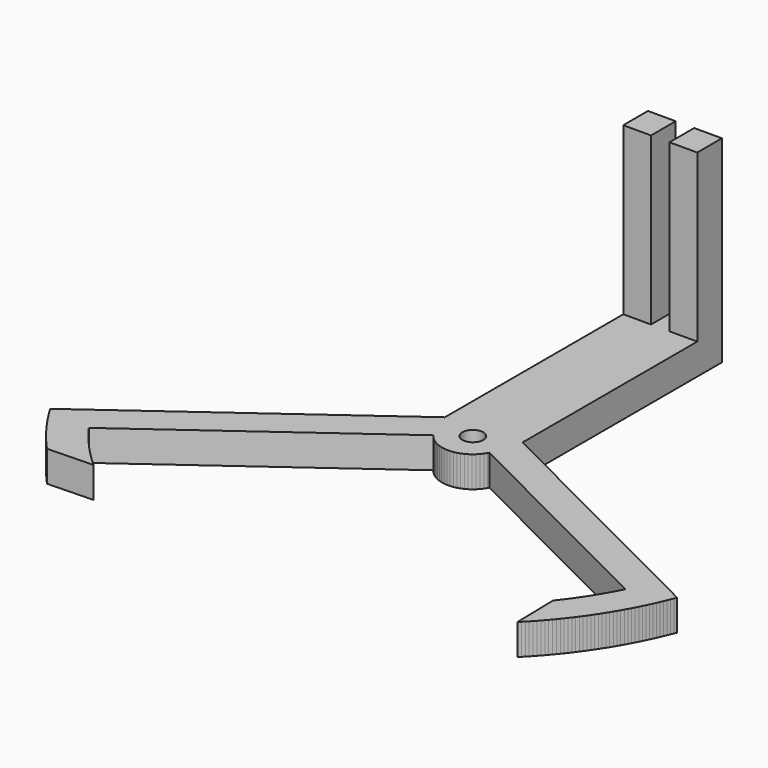
from build123d import *

# Parameters (mm, degrees)
F0_W     = 3
F0_H     = 5
F1_DEPTH = 5
F0_W_2   = 4.5
F2_DEPTH = 32


with BuildPart() as f1:
    # F0 (on Top) → F1 (new body)
    with BuildSketch(Plane.XY):
        with BuildLine():
            Line((47.181574, -2.732137), (5.298654, 18.285511))
            Line((5.298654, 18.285511), (5.298654, 14.702181))
            Line((5.298654, 14.702181), (0.673427, 14.702181))
            ThreePointArc((0.673427, 14.702181), (-0.701346, 14.002181), (-2.076119, 14.702181))
            Line((-2.076119, 14.702181), (-6.701346, 14.702181))
            Line((-6.701346, 14.702181), (-6.701346, 17.523266))
            Line((-6.701346, 17.523266), (-47.181575, -11.887342))
            Line((-47.181575, -11.887342), (-46.924376, -12.316116))
            Line((-46.924376, -12.316116), (-46.663222, -12.742492))
            Line((-46.663222, -12.742492), (-46.398134, -13.166434))
            Line((-46.398134, -13.166434), (-46.129137, -13.587906))
            Line((-46.129137, -13.587906), (-45.856253, -14.006872))
            Line((-45.856253, -14.006872), (-45.579504, -14.423295))
            Line((-45.579504, -14.423295), (-45.298916, -14.837141))
            Line((-45.298916, -14.837141), (-45.014511, -15.248374))
            Line((-45.014511, -15.248374), (-44.726314, -15.656958))
            Line((-44.726314, -15.656958), (-44.434351, -16.062858))
            Line((-44.434351, -16.062858), (-44.138645, -16.466041))
            Line((-44.138645, -16.466041), (-43.839222, -16.866471))
            Line((-43.839222, -16.866471), (-43.536108, -17.264114))
            Line((-43.536108, -17.264114), (-43.229328, -17.658936))
            Line((-43.229328, -17.658936), (-42.91891, -18.050904))
            Line((-42.91891, -18.050904), (-42.604879, -18.439983))
            Line((-42.604879, -18.439983), (-42.287262, -18.826141))
            Line((-42.287262, -18.826141), (-41.966087, -19.209344))
            Line((-41.966087, -19.209344), (-41.641381, -19.58956))
            Line((-41.641381, -19.58956), (-41.313171, -19.966756))
            Line((-41.313171, -19.966756), (-40.981487, -20.3409))
            Line((-40.981487, -20.3409), (-40.658041, -20.699137))
            Line((-40.658041, -20.699137), (-33.282088, -20.482399))
            Line((-33.282088, -20.482399), (-33.651937, -20.145932))
            Line((-33.651937, -20.145932), (-34.01831, -19.805685))
            Line((-34.01831, -19.805685), (-34.38117, -19.461693))
            Line((-34.38117, -19.461693), (-34.740479, -19.113994))
            Line((-34.740479, -19.113994), (-35.096199, -18.762623))
            Line((-35.096199, -18.762623), (-35.448292, -18.407618))
            Line((-35.448292, -18.407618), (-35.79672, -18.049016))
            Line((-35.79672, -18.049016), (-36.141448, -17.686856))
            Line((-36.141448, -17.686856), (-36.482439, -17.321174))
            Line((-36.482439, -17.321174), (-36.819657, -16.95201))
            Line((-36.819657, -16.95201), (-37.153067, -16.579403))
            Line((-37.153067, -16.579403), (-37.482632, -16.203392))
            Line((-37.482632, -16.203392), (-37.808319, -15.824017))
            Line((-37.808319, -15.824017), (-38.130094, -15.441317))
            Line((-38.130094, -15.441317), (-38.447921, -15.055333))
            Line((-38.447921, -15.055333), (-38.761768, -14.666106))
            Line((-38.761768, -14.666106), (-39.071602, -14.273677))
            Line((-39.071602, -14.273677), (-39.37739, -13.878087))
            Line((-39.37739, -13.878087), (-39.6791, -13.479377))
            Line((-39.6791, -13.479377), (-39.976699, -13.077591))
            Line((-39.976699, -13.077591), (-40.093318, -12.917762))
            Line((-40.093318, -12.917762), (-4.746431, 12.763255))
            Line((-4.746431, 12.763255), (-4.432819, 12.374102))
            Line((-4.432819, 12.374102), (-4.081924, 12.018203))
            Line((-4.081924, 12.018203), (-3.697251, 11.699113))
            Line((-3.697251, 11.699113), (-3.282644, 11.42002))
            Line((-3.282644, 11.42002), (-2.842246, 11.183714))
            Line((-2.842246, 11.183714), (-2.380456, 10.992554))
            Line((-2.380456, 10.992554), (-1.901889, 10.848451))
            Line((-1.901889, 10.848451), (-1.411327, 10.752845))
            Line((-1.411327, 10.752845), (-0.913671, 10.706691))
            Line((-0.913671, 10.706691), (-0.413894, 10.710451))
            Line((-0.413894, 10.710451), (0.083012, 10.764086))
            Line((0.083012, 10.764086), (0.57208, 10.867061))
            Line((0.57208, 10.867061), (1.048425, 11.018347))
            Line((1.048425, 11.018347), (1.507287, 11.216432))
            Line((1.507287, 11.216432), (1.94408, 11.459338))
            Line((1.94408, 11.459338), (2.354442, 11.744636))
            Line((2.354442, 11.744636), (2.734271, 12.069477))
            Line((2.734271, 12.069477), (3.079772, 12.430615))
            Line((3.079772, 12.430615), (3.387494, 12.824441))
            Line((3.387494, 12.824441), (3.654361, 13.247021))
            Line((3.654361, 13.247021), (3.767534, 13.459612))
            Line((3.767534, 13.459612), (40.612321, -5.029804))
            Line((40.612321, -5.029804), (40.385651, -5.47547))
            Line((40.385651, -5.47547), (40.154175, -5.918659))
            Line((40.154175, -5.918659), (39.917917, -6.359317))
            Line((39.917917, -6.359317), (39.676907, -6.797395))
            Line((39.676907, -6.797395), (39.431173, -7.23284))
            Line((39.431173, -7.23284), (39.180743, -7.665601))
            Line((39.180743, -7.665601), (38.925647, -8.095628))
            Line((38.925647, -8.095628), (38.665914, -8.522871))
            Line((38.665914, -8.522871), (38.401574, -8.947279))
            Line((38.401574, -8.947279), (38.13266, -9.368803))
            Line((38.13266, -9.368803), (37.859202, -9.787394))
            Line((37.859202, -9.787394), (37.581232, -10.203002))
            Line((37.581232, -10.203002), (37.298782, -10.615579))
            Line((37.298782, -10.615579), (37.011887, -11.025077))
            Line((37.011887, -11.025077), (36.720579, -11.431448))
            Line((36.720579, -11.431448), (36.424892, -11.834644))
            Line((36.424892, -11.834644), (36.124861, -12.234618))
            Line((36.124861, -12.234618), (35.820522, -12.631323))
            Line((35.820522, -12.631323), (35.511909, -13.024713))
            Line((35.511909, -13.024713), (35.399096, -13.166355))
            Line((35.399096, -13.166355), (35.567373, -20.590768))
            Line((35.567373, -20.590768), (35.919316, -20.235615))
            Line((35.919316, -20.235615), (36.267782, -19.87705))
            Line((36.267782, -19.87705), (36.612738, -19.515105))
            Line((36.612738, -19.515105), (36.95415, -19.149817))
            Line((36.95415, -19.149817), (37.291986, -18.781218))
            Line((37.291986, -18.781218), (37.626214, -18.409345))
            Line((37.626214, -18.409345), (37.956803, -18.034233))
            Line((37.956803, -18.034233), (38.28372, -17.655917))
            Line((38.28372, -17.655917), (38.606936, -17.274433))
            Line((38.606936, -17.274433), (38.926418, -16.889818))
            Line((38.926418, -16.889818), (39.242138, -16.502108))
            Line((39.242138, -16.502108), (39.554064, -16.111339))
            Line((39.554064, -16.111339), (39.862168, -15.71755))
            Line((39.862168, -15.71755), (40.166419, -15.320776))
            Line((40.166419, -15.320776), (40.46679, -14.921057))
            Line((40.46679, -14.921057), (40.763251, -14.51843))
            Line((40.763251, -14.51843), (41.055775, -14.112933))
            Line((41.055775, -14.112933), (41.344333, -13.704604))
            Line((41.344333, -13.704604), (41.628898, -13.293483))
            Line((41.628898, -13.293483), (41.909444, -12.879608))
            Line((41.909444, -12.879608), (42.185943, -12.46302))
            Line((42.185943, -12.46302), (42.45837, -12.043756))
            Line((42.45837, -12.043756), (42.726698, -11.621858))
            Line((42.726698, -11.621858), (42.990902, -11.197365))
            Line((42.990902, -11.197365), (43.250957, -10.770318))
            Line((43.250957, -10.770318), (43.506838, -10.340757))
            Line((43.506838, -10.340757), (43.758521, -9.908722))
            Line((43.758521, -9.908722), (44.005982, -9.474256))
            Line((44.005982, -9.474256), (44.249197, -9.037398))
            Line((44.249197, -9.037398), (44.488144, -8.598192))
            Line((44.488144, -8.598192), (44.722799, -8.156678))
            Line((44.722799, -8.156678), (44.953141, -7.712898))
            Line((44.953141, -7.712898), (45.179148, -7.266894))
            Line((45.179148, -7.266894), (45.400797, -6.818709))
            Line((45.400797, -6.818709), (45.618069, -6.368386))
            Line((45.618069, -6.368386), (45.830942, -5.915967))
            Line((45.830942, -5.915967), (46.039396, -5.461495))
            Line((46.039396, -5.461495), (46.243411, -5.005013))
            Line((46.243411, -5.005013), (46.442969, -4.546565))
            Line((46.442969, -4.546565), (46.638049, -4.086193))
            Line((46.638049, -4.086193), (46.828634, -3.623943))
            Line((46.828634, -3.623943), (47.014706, -3.159858))
            Line((47.014706, -3.159858), (47.181574, -2.732137))
        make_face()
        with BuildLine():
            Line((5.298654, 14.702181), (5.298654, 18.285511))
            Line((5.298654, 18.285511), (1.541223, 20.171061))
            Line((1.541223, 20.171061), (1.083876, 20.372618))
            Line((1.083876, 20.372618), (0.608691, 20.52751))
            Line((0.608691, 20.52751), (0.120418, 20.634189))
            Line((0.120418, 20.634189), (-0.376067, 20.691589))
            Line((-0.376067, 20.691589), (-0.875802, 20.699137))
            Line((-0.875802, 20.699137), (-1.373793, 20.656756))
            Line((-1.373793, 20.656756), (-1.865066, 20.564871))
            Line((-1.865066, 20.564871), (-2.344711, 20.4244))
            Line((-2.344711, 20.4244), (-2.807936, 20.236746))
            Line((-2.807936, 20.236746), (-3.250113, 20.003784))
            Line((-3.250113, 20.003784), (-3.640272, 19.747266))
            Line((-3.640272, 19.747266), (-6.701346, 17.523266))
            Line((-6.701346, 17.523266), (-6.701346, 14.702181))
            Line((-6.701346, 14.702181), (-2.076119, 14.702181))
            ThreePointArc((-2.076119, 14.702181), (-1.227125, 17.318831), (0.998654, 15.702181))
            ThreePointArc((0.998654, 15.702181), (0.915304, 15.176402), (0.673427, 14.702181))
            Line((0.673427, 14.702181), (5.298654, 14.702181))
        make_face()
        Polygon((5.298654, 53.702181), (0.798654, 53.702181), (-2.201346, 53.702181), (-6.701346, 53.702181), (-6.701346, 17.523266), (-3.640272, 19.747266), (-3.250113, 20.003784), (-2.807936, 20.236746), (-2.344711, 20.4244), (-1.865066, 20.564871), (-1.373793, 20.656756), (-0.875802, 20.699137), (-0.376067, 20.691589), (0.120418, 20.634189), (0.608691, 20.52751), (1.083876, 20.372618), (1.541223, 20.171061), (5.298654, 18.285511), align=None)
        with Locations((-0.701346, 56.202181)):
            Rectangle(F0_W, F0_H)
    extrude(amount=F1_DEPTH)

    # F0 (on Top) → F2 (join)
    with BuildSketch(Plane.XY):
        with Locations((-4.451346, 56.202181)):
            Rectangle(F0_W_2, F0_H)
        with Locations((3.048654, 56.202181)):
            Rectangle(F0_W_2, F0_H)
    extrude(amount=F2_DEPTH)


solid = f1.part
